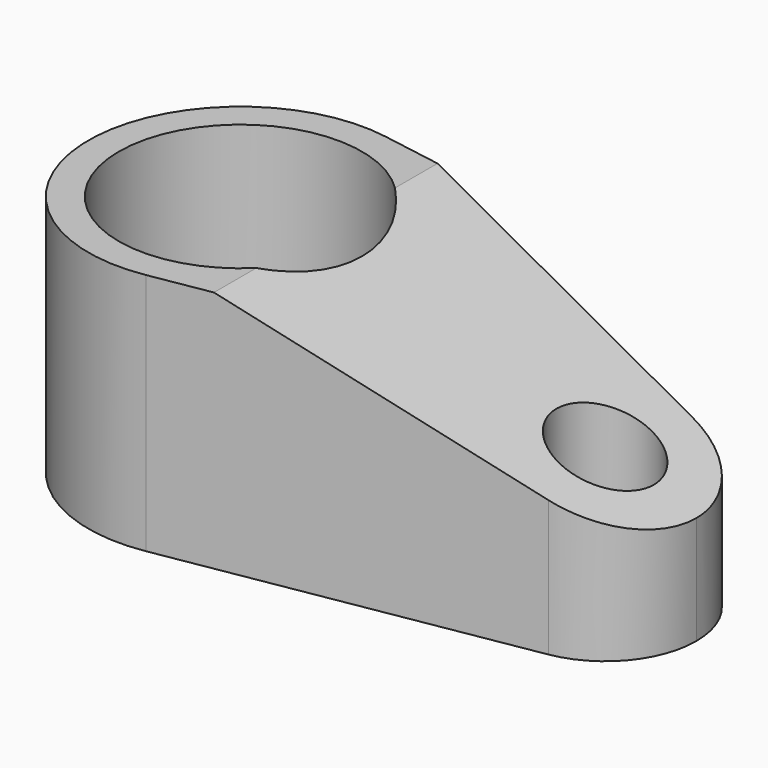
from build123d import *

# Parameters (mm, degrees)
F0_R     = 10
F0_R_2   = 4
F1_DEPTH = 20
F3_DEPTH = 12.5


with BuildPart() as f1:
    # F0 (on Top) → F1 (new body)
    with BuildSketch(Plane.XY):
        with BuildLine():
            ThreePointArc((2.083333, -12.325166), (9.547033, -8.068715), (12.5, 0))
            ThreePointArc((12.5, 0), (9.547033, 8.068715), (2.083333, 12.325166))
            ThreePointArc((2.083333, 12.325166), (-12.5, 0), (2.083333, -12.325166))
        make_face()
        Circle(F0_R, mode=Mode.SUBTRACT)
        with BuildLine():
            ThreePointArc((37.5, 0), (35.72822, 4.841229), (31.25, 7.3951))
            ThreePointArc((31.25, 7.3951), (22.5, 0), (31.25, -7.3951))
            ThreePointArc((31.25, -7.3951), (35.72822, -4.841229), (37.5, 0))
        make_face()
        with Locations((30, 0)):
            Circle(F0_R_2, mode=Mode.SUBTRACT)
        with BuildLine():
            ThreePointArc((2.083333, 12.325166), (9.547033, 8.068715), (12.5, 0))
            ThreePointArc((12.5, 0), (9.547033, -8.068715), (2.083333, -12.325166))
            Line((2.083333, -12.325166), (31.25, -7.3951))
            ThreePointArc((31.25, -7.3951), (22.5, 0), (31.25, 7.3951))
            Line((31.25, 7.3951), (2.083333, 12.325166))
        make_face()
    extrude(amount=F1_DEPTH)

    # F2 (on Front) → F3 (cut, symmetric)
    with BuildSketch(Plane.XZ):
        Polygon((43.665298, 20), (7.017286, 20), (43.665298, 6.661214), align=None)
    extrude(amount=F3_DEPTH, both=True, mode=Mode.SUBTRACT)


solid = f1.part
